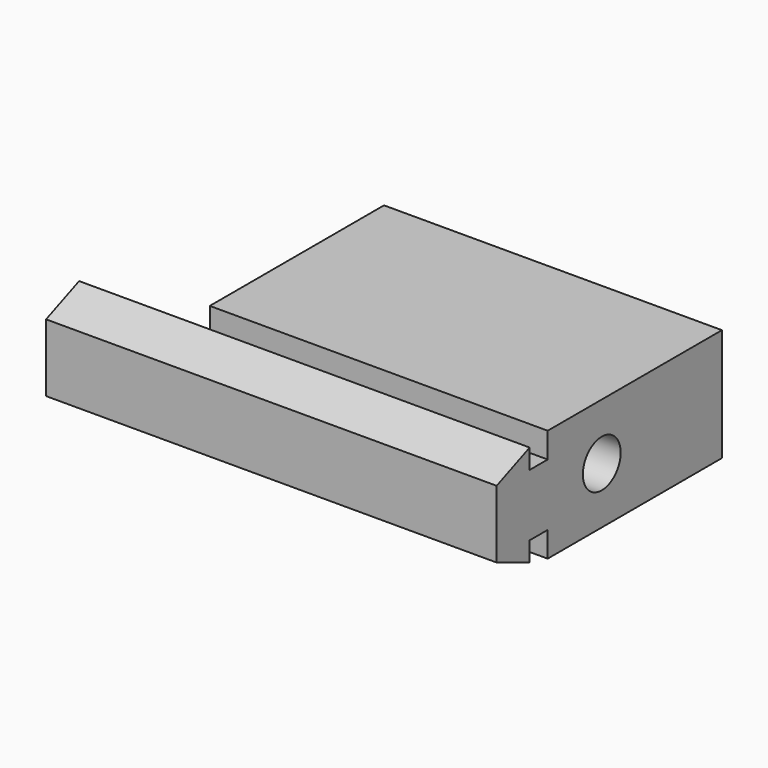
from build123d import *

# Parameters (mm, degrees)
SKETCH_W        = 40
SKETCH_H        = 25
PAD_DEPTH       = 10
POCKET_DEPTH    = 40.001
SKETCH002_R     = 2.1
POCKET001_DEPTH = 40.001
SKETCH003_W     = 21.335087
SKETCH003_H     = 10
POCKET002_DEPTH = 10


with BuildPart() as part:
    # Sketch → Pad (new body)
    with BuildSketch(Plane.XY):
        Rectangle(SKETCH_W, SKETCH_H)
    extrude(amount=-PAD_DEPTH)

    # Sketch001 → Pocket (cut, through all)
    with BuildSketch(Plane.YZ.offset(20)):
        Polygon((-8.835087, -0.5), (-8.835087, -2.25), (-6.835087, -2.25), (-6.835087, 0), (-12.5, 0), (-12.5, -2), align=None)
        Polygon((-8.835087, -9.5), (-8.835087, -7.75), (-6.835087, -7.75), (-6.835087, -10), (-12.5, -10), (-12.5, -8), align=None)
    extrude(amount=-POCKET_DEPTH, mode=Mode.SUBTRACT)

    # Sketch002 (on Face5 of Pocket) → Pocket001 (cut, through all)
    with BuildSketch(Plane(origin=(-20, 0, 0), x_dir=(0, -1, 0), z_dir=(-1, 0, 0))):
        with Locations((0.835087, -5)):
            Circle(SKETCH002_R)
    extrude(amount=-POCKET001_DEPTH, mode=Mode.SUBTRACT)

    # Sketch003 (on Face5 of Pocket001) → Pocket002 (cut)
    with BuildSketch(Plane(origin=(-20, 0, 0), x_dir=(0, -1, 0), z_dir=(-1, 0, 0))):
        with Locations((-1.832457, -5)):
            Rectangle(SKETCH003_W, SKETCH003_H)
    extrude(amount=-POCKET002_DEPTH, mode=Mode.SUBTRACT)


solid = part.part
